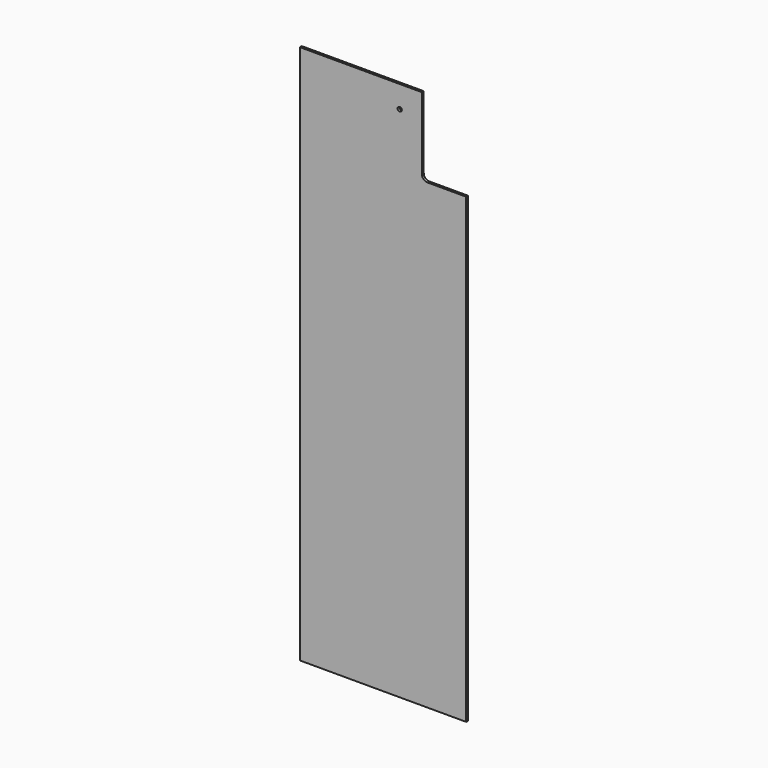
from build123d import *

# Parameters (mm, degrees)
F0_W     = 381
F0_H     = 1281.049
F1_DEPTH = 5.334
F3_DEPTH = 25.4
F4_W     = 381
F4_H     = 44.45
F5_DEPTH = 25.4
F6_R     = 4.7625
F7_DEPTH = 25.4


with BuildPart() as f1:
    # F0 (on Front) → F1 (new body)
    with BuildSketch(Plane.XZ):
        with Locations((-304.8, 640.5245)):
            Rectangle(F0_W, F0_H)
    extrude(amount=F1_DEPTH)

    # F2 (on face) → F3 (cut)
    with BuildSketch(Plane.XZ.offset(5.334)):
        with BuildLine():
            Line((-114.3, 1103.249), (-114.3, 1281.049))
            Line((-114.3, 1281.049), (-215.9, 1281.049))
            Line((-215.9, 1281.049), (-215.9, 1115.949))
            ThreePointArc((-215.9, 1115.949), (-212.180256, 1106.968744), (-203.2, 1103.249))
            Line((-203.2, 1103.249), (-114.3, 1103.249))
        make_face()
    extrude(amount=-F3_DEPTH, mode=Mode.SUBTRACT)

    # F4 (on face) → F5 (cut)
    with BuildSketch(Plane.XZ.offset(5.334)):
        with Locations((-304.8, 22.225)):
            Rectangle(F4_W, F4_H)
    extrude(amount=-F5_DEPTH, mode=Mode.SUBTRACT)

    # F6 (on face) → F7 (cut)
    with BuildSketch(Plane.XZ.offset(5.334)):
        with Locations((-266.7, 1230.249)):
            Circle(F6_R)
    extrude(amount=-F7_DEPTH, mode=Mode.SUBTRACT)


solid = f1.part
